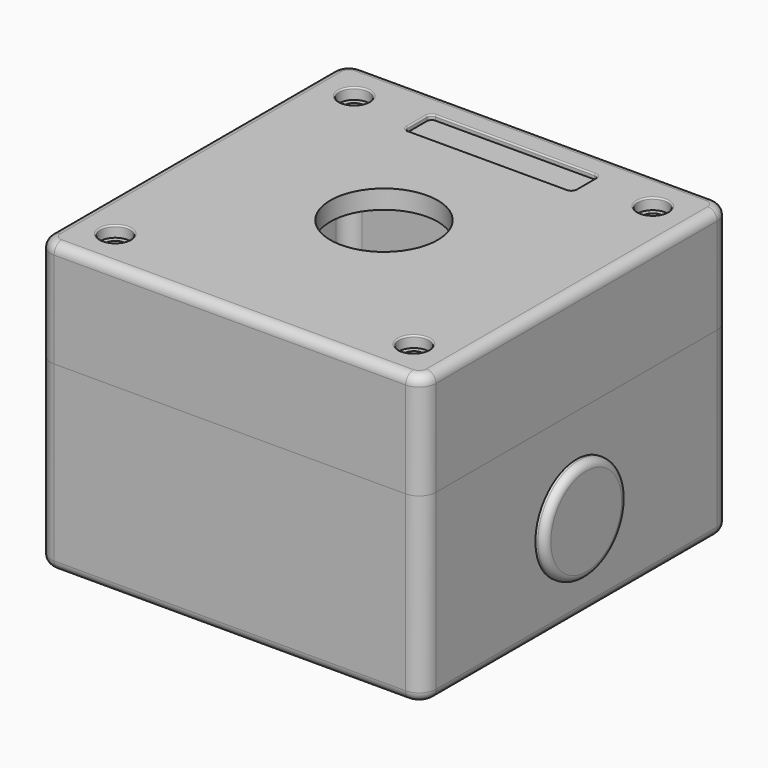
from build123d import *

# Parameters (mm, degrees)
SKETCH_W         = 80
SKETCH_H         = 80
SKETCH_R         = 2.1
PAD_DEPTH        = 38
POCKET_DEPTH     = 36
FILLET_R         = 3.5
FILLET001_R      = 2
SKETCH005_R      = 10.7
POCKET003_DEPTH  = 80.001
SKETCH002_W      = 80
SKETCH002_H      = 80
PAD001_DEPTH     = 21.9
POCKET001_DEPTH  = 18
FILLET002_R      = 3.5
SKETCH004_R      = 11.15
POCKET002_DEPTH  = 21.901
FILLET005_R      = 2
HOLE_D           = 4
HOLE_CBORE_D     = 6.2
HOLE_CBORE_DEPTH = 2.3
SKETCH009_W      = 35
SKETCH009_H      = 7
POCKET004_DEPTH  = 1
FILLET006_R      = 1
FILLET007_R      = 0.3
FILLET008_R      = 0.3
SKETCH006_R      = 10.7
PAD002_DEPTH     = 2
FILLET003_R      = 1.5
SKETCH007_R      = 10.7
PAD003_DEPTH     = 2
FILLET004_R      = 1.5


with BuildPart() as bodybottom:
    # Sketch → Pad (new body)
    with BuildSketch(Plane.XY):
        Rectangle(SKETCH_W, SKETCH_H)
        with Locations((31, 31)):
            Circle(SKETCH_R, mode=Mode.SUBTRACT)
        with Locations((-31, 31)):
            Circle(SKETCH_R, mode=Mode.SUBTRACT)
        with Locations((-31, -31)):
            Circle(SKETCH_R, mode=Mode.SUBTRACT)
        with Locations((31, -31)):
            Circle(SKETCH_R, mode=Mode.SUBTRACT)
    extrude(amount=PAD_DEPTH)

    # Sketch001 (on Face10 of Pad) → Pocket (cut)
    with BuildSketch(Plane.XY.offset(38)):
        with BuildLine():
            Line((-35, 38), (35, 38))
            ThreePointArc((38, 35), (37.12132, 37.12132), (35, 38))
            Line((38, 35), (38, -35))
            ThreePointArc((35, -38), (37.12132, -37.12132), (38, -35))
            Line((35, -38), (-35, -38))
            ThreePointArc((-38, -35), (-37.12132, -37.12132), (-35, -38))
            Line((-38, -35), (-38, 35))
            ThreePointArc((-35, 38), (-37.12132, 37.12132), (-38, 35))
        make_face()
    extrude(amount=-POCKET_DEPTH, mode=Mode.SUBTRACT)

    # Fillet
    fillet_edges = [bodybottom.edges().sort_by_distance(p)[0] for p in [
        (-40, -40, 19),
        (-40, 40, 19),
        (40, 40, 19),
        (40, -40, 19),
    ]]
    fillet(fillet_edges, radius=FILLET_R)

    # Fillet001
    fillet001_edges = [bodybottom.edges().sort_by_distance(p)[0] for p in [
        (0, -40, 0),
    ]]
    fillet(fillet001_edges, radius=FILLET001_R)

    # Sketch005 (on Face10 of Fillet001) → Pocket003 (cut, through all)
    with BuildSketch(Plane.YZ.offset(40)):
        with Locations((0, 18.5)):
            Circle(SKETCH005_R)
    extrude(amount=-POCKET003_DEPTH, mode=Mode.SUBTRACT)


with BuildPart() as bodytop:
    # Sketch002 (on DatumPlane) → Pad001 (new body)
    with BuildSketch(Plane.XY.offset(38)):
        Rectangle(SKETCH002_W, SKETCH002_H)
    extrude(amount=PAD001_DEPTH)

    # Sketch003 (on Face5 of Pad001) → Pocket001 (cut)
    with BuildSketch(Plane(origin=(0, 0, 38), x_dir=(1, 0, 0), z_dir=(0, 0, -1))):
        with BuildLine():
            Line((-35, 38), (35, 38))
            ThreePointArc((38, 35), (37.12132, 37.12132), (35, 38))
            Line((38, 35), (38, -35))
            ThreePointArc((35, -38), (37.12132, -37.12132), (38, -35))
            Line((35, -38), (-35, -38))
            ThreePointArc((-38, -35), (-37.12132, -37.12132), (-35, -38))
            Line((-38, -35), (-38, 35))
            ThreePointArc((-35, 38), (-37.12132, 37.12132), (-38, 35))
        make_face()
    extrude(amount=-POCKET001_DEPTH, mode=Mode.SUBTRACT)

    # Fillet002
    fillet002_edges = [bodytop.edges().sort_by_distance(p)[0] for p in [
        (40, -40, 48.95),
        (40, 40, 48.95),
        (-40, 40, 48.95),
        (-40, -40, 48.95),
    ]]
    fillet(fillet002_edges, radius=FILLET002_R)

    # Sketch004 (on Face5 of Fillet002) → Pocket002 (cut, through all)
    with BuildSketch(Plane.XY.offset(59.9)):
        Circle(SKETCH004_R)
    extrude(amount=-POCKET002_DEPTH, mode=Mode.SUBTRACT)

    # Fillet005
    fillet005_edges = [bodytop.edges().sort_by_distance(p)[0] for p in [
        (40, 0, 59.9),
    ]]
    fillet(fillet005_edges, radius=FILLET005_R)

    # Hole (through all)
    with Locations(Plane.XY.offset(59.9)):
        with Locations((-31, 31), (31, 31), (31, -31), (-31, -31)):
            CounterBoreHole(HOLE_D / 2, HOLE_CBORE_D / 2, HOLE_CBORE_DEPTH)

    # Sketch009 (on Face8 of Hole) → Pocket004 (cut)
    with BuildSketch(Plane.XY.offset(59.9)):
        with Locations((0, 30.5)):
            Rectangle(SKETCH009_W, SKETCH009_H)
    extrude(amount=-POCKET004_DEPTH, mode=Mode.SUBTRACT)

    # Fillet006
    fillet006_edges = [bodytop.edges().sort_by_distance(p)[0] for p in [
        (17.5, 34, 59.4),
        (17.5, 27, 59.4),
        (-17.5, 27, 59.4),
        (-17.5, 34, 59.4),
    ]]
    fillet(fillet006_edges, radius=FILLET006_R)

    # Fillet007
    fillet007_edges = [bodytop.edges().sort_by_distance(p)[0] for p in [
        (0, 34, 59.9),
    ]]
    fillet(fillet007_edges, radius=FILLET007_R)

    # Fillet008
    fillet008_edges = [bodytop.edges().sort_by_distance(p)[0] for p in [
        (27.9, 31, 59.9),
        (-34.1, 31, 59.9),
        (-34.1, -31, 59.9),
        (27.9, -31, 59.9),
    ]]
    fillet(fillet008_edges, radius=FILLET008_R)


with BuildPart() as rubberright:
    # Sketch006 (on DatumPlane) → Pad002 (new body)
    with BuildSketch(Plane.YZ.offset(40)):
        with Locations((0, 18.5)):
            Circle(SKETCH006_R)
    extrude(amount=PAD002_DEPTH)

    # Fillet003
    fillet003_edges = [rubberright.edges().sort_by_distance(p)[0] for p in [
        (42, -10.7, 18.5),
    ]]
    fillet(fillet003_edges, radius=FILLET003_R)


with BuildPart() as rubberleft:
    # Sketch007 (on DatumPlane) → Pad003 (new body)
    with BuildSketch(Plane.YZ.offset(-40)):
        with Locations((0, 18.5)):
            Circle(SKETCH007_R)
    extrude(amount=PAD003_DEPTH)

    # Fillet004
    fillet004_edges = [rubberleft.edges().sort_by_distance(p)[0] for p in [
        (-40, -10.7, 18.5),
    ]]
    fillet(fillet004_edges, radius=FILLET004_R)


solid = Compound([bodybottom.part, bodytop.part, rubberright.part, rubberleft.part])
